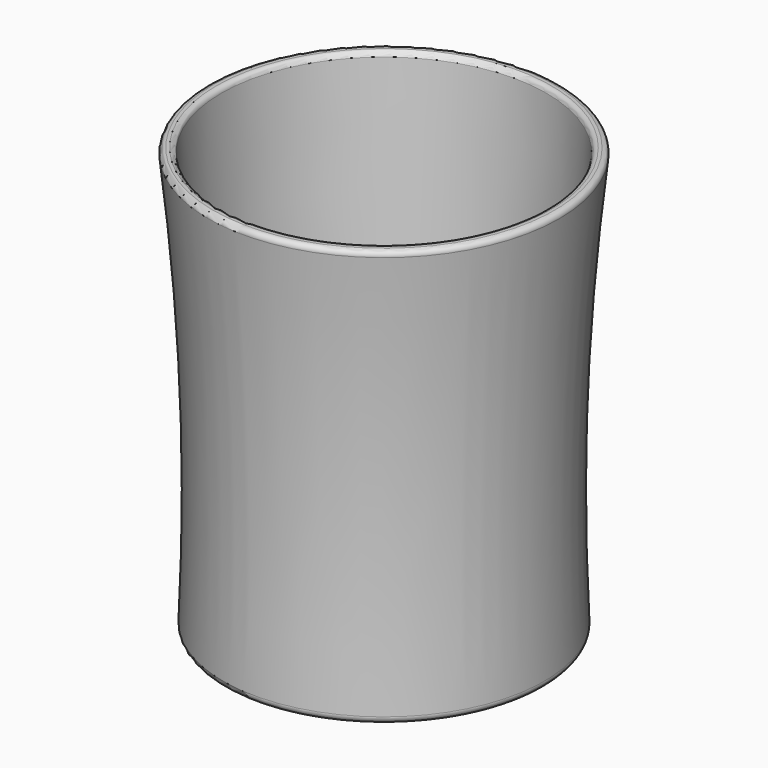
from build123d import *


with BuildPart() as f1:
    # F0 (on Front) → F1 (revolve)
    with BuildSketch(Plane.XZ):
        with BuildLine():
            Line((-1312.377477, 3251.2), (-1334.822288, 3251.2))
            ThreePointArc((-1334.822288, 3251.2), (-1363.300283, 3238.41035), (-1372.658929, 3208.628022))
            ThreePointArc((-1372.658929, 3208.628022), (-1253.163173, 1658.553115), (-1260.124178, 103.894632))
            ThreePointArc((-1260.124178, 103.894632), (-1246.099368, 66.499625), (-1209.376029, 50.8))
            Line((-1209.376029, 50.8), (-50.8, 50.8))
            Line((-50.8, 50.8), (-50.8, 101.701027))
            ThreePointArc((-50.8, 101.701027), (-540.379577, 115.603877), (-1028.733708, 152.909283))
            ThreePointArc((-1028.733708, 152.909283), (-1092.126084, 183.910067), (-1120.036485, 248.7225))
            Line((-1120.036485, 248.7225), (-1274.328911, 3215.079063))
            ThreePointArc((-1274.328911, 3215.079063), (-1286.145743, 3240.731615), (-1312.377477, 3251.2))
        make_face()
    revolve(axis=Axis((-50.8, 0, 76.250514), (0, 0, -1)))


solid = f1.part
